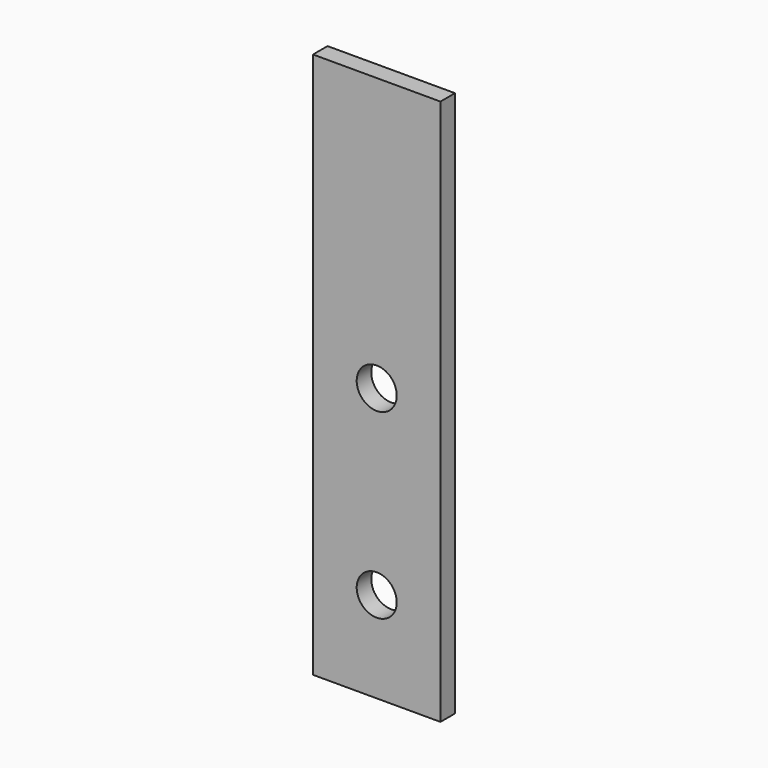
from build123d import *

# Parameters (mm, degrees)
F0_W     = 35
F0_H     = 150
F0_R     = 5.5
F1_DEPTH = 2.5


with BuildPart() as f1:
    # F0 (on Front) → F1 (new body, symmetric)
    with BuildSketch(Plane.XZ):
        Rectangle(F0_W, F0_H)
        with Locations((0, -50)):
            Circle(F0_R, mode=Mode.SUBTRACT)
        Circle(F0_R, mode=Mode.SUBTRACT)
    extrude(amount=F1_DEPTH, both=True)


solid = f1.part
